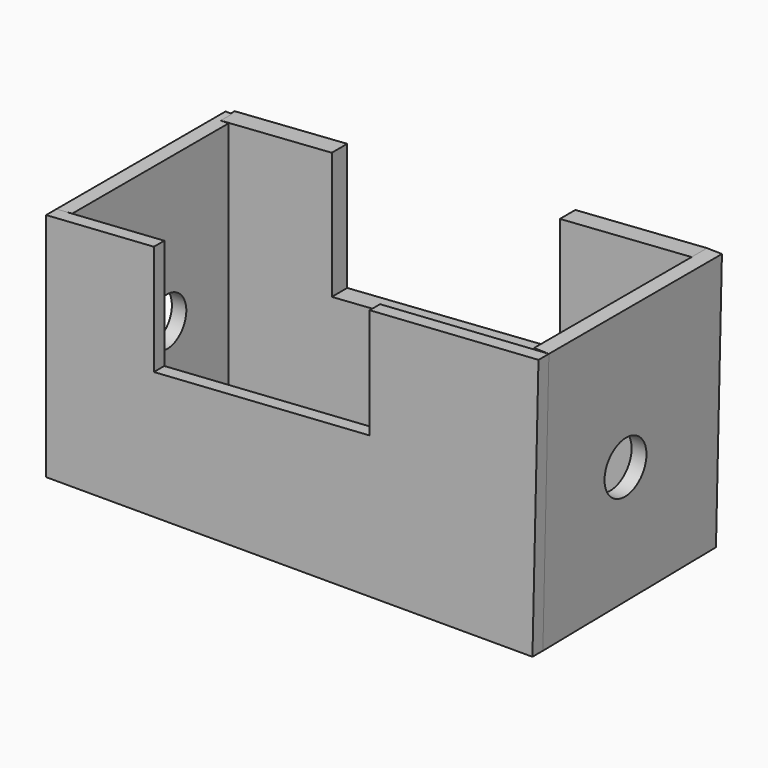
from build123d import *

# Parameters (mm, degrees)
F1_DEPTH = 7.366
F2_R     = 14.7883109898
F4_DEPTH = 8.382
F3_R     = 13.603757009
F5_DEPTH = 8.128
F7_DEPTH = 10.922


with BuildPart() as f1:
    # F0 (on Front) → F1 (new body)
    with BuildSketch(Plane.XZ):
        Polygon((-76.4300598123, 62.2463936663), (-137.2705996037, 58.215200901), (-137.2705996037, -72.0348134637), (137.2705996037, -72.0348134637), (140.6780183315, 76.6316130757), (45.3754555261, 70.3170241025), (45.3754555261, 8.0706304363), (-76.4300598123, 0), align=None)
    extrude(amount=F1_DEPTH)

    # F2 (on face) → F4 (join)
    with BuildSketch(Plane(origin=(138.8486896806, 0, -3.1823972404), x_dir=(0, 1, 0), z_dir=(0.9997374427, 0, -0.0229138761))):
        Polygon((122.0736131072, 79.834971573), (0, 79.834971573), (0, -68.8704986774), (122.0736131072, -67.0348182321), align=None)
        with Locations((56.3235022128, 0)):
            Circle(F2_R, mode=Mode.SUBTRACT)
    extrude(amount=-F4_DEPTH)

    # F3 (on face) → F5 (join)
    with BuildSketch(Plane(origin=(-137.2705996037, 0, 0), x_dir=(0, -1, 0), z_dir=(-1, 0, 0))):
        Polygon((0, -72.0348134637), (0, 58.215200901), (-119.2674264312, 58.215200901), (-119.2674264312, -78.3181233552), align=None)
        with Locations((-67.8130164742, -22.7041952312)):
            Circle(F3_R, mode=Mode.SUBTRACT)
    extrude(amount=-F5_DEPTH)

    # F6 (on face) → F7 (join)
    with BuildSketch(Plane(origin=(0, 122.0736131072, 0), x_dir=(-1, 0, 0), z_dir=(0, 1, 0))):
        Polygon((-132.2982190871, 76.8236771856), (-128.9328629136, -70.0075508798), (136.390298605, -77.0845785737), (134.340301156, 58.1577047706), (70.8223407273, 62.6042659656), (70.8223407273, -9.0142149687), (-57.9433558552, 0), (-57.9433558552, 71.6184809343), align=None)
    extrude(amount=-F7_DEPTH)


solid = f1.part
